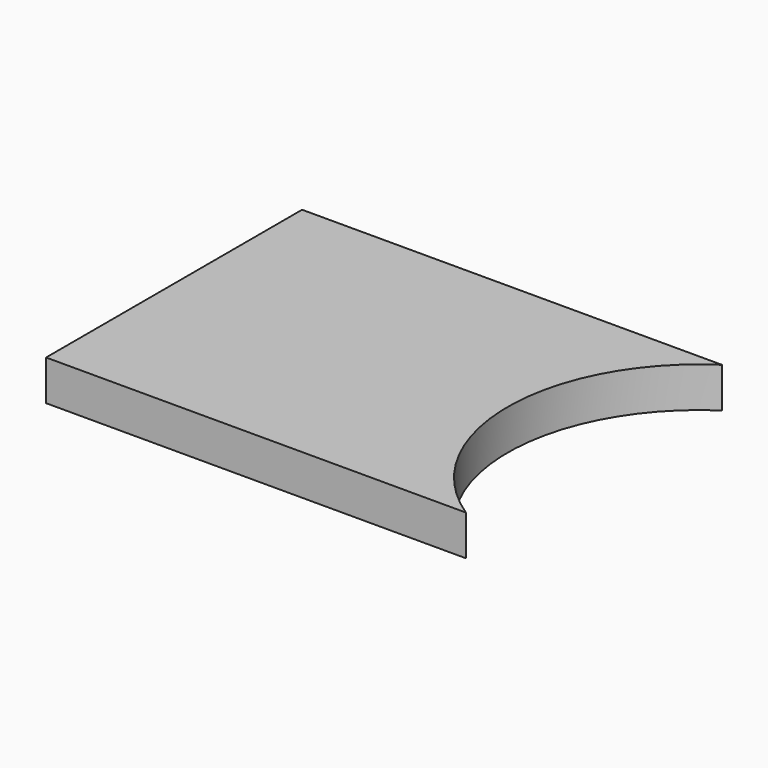
from build123d import *

# Parameters (mm, degrees)
PAD_DEPTH = 12


with BuildPart() as part:
    # Sketch → Pad (new body)
    with BuildSketch(Plane(origin=(0, 0, 0), x_dir=(-1, 0, 0), z_dir=(0, 0, -1))):
        with BuildLine():
            Line((156.66224, 47.72025), (156.66224, -47.72025))
            Line((156.66224, -47.72025), (31.446784, -47.72025))
            ThreePointArc((31.446784, -47.72025), (57.15, 0), (31.446784, 47.72025))
            Line((156.66224, 47.72025), (31.446784, 47.72025))
        make_face()
    extrude(amount=PAD_DEPTH)


solid = part.part
